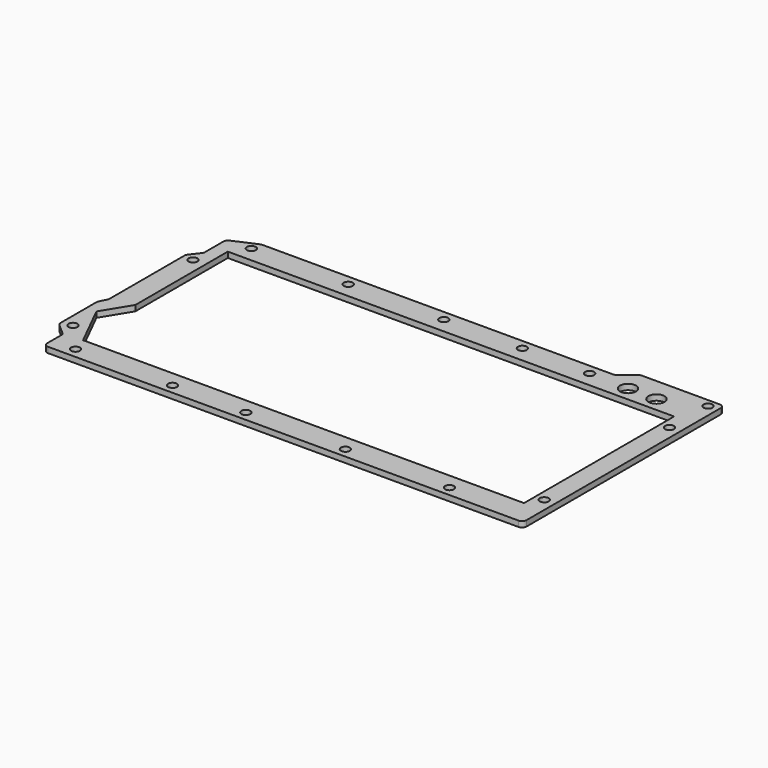
from build123d import *

# Parameters (mm, degrees)
F0_R     = 5
F0_R_2   = 9
F1_DEPTH = 6.35


with BuildPart() as f1:
    # F0 (on Top) → F1 (new body)
    with BuildSketch(Plane.XY):
        with BuildLine():
            Line((276.710023, 147.809442), (188.99699, 147.809442))
            ThreePointArc((188.99699, 147.809442), (187.374308, 147.538808), (185.927287, 146.756203))
            Line((185.927287, 146.756203), (170.635616, 134.862681))
            ThreePointArc((170.635616, 134.862681), (169.188595, 134.080076), (167.565913, 133.809442))
            Line((167.565913, 133.809442), (-226.693159, 133.809442))
            ThreePointArc((-226.693159, 133.809442), (-227.722024, 133.702441), (-228.706852, 133.386017))
            Line((-228.706852, 133.386017), (-254.30367, 122.123417))
            ThreePointArc((-254.30367, 122.123417), (-256.477367, 120.279198), (-257.289977, 117.546842))
            Line((-257.289977, 117.546842), (-257.289977, 91.510056))
            ThreePointArc((-257.289977, 91.510056), (-257.556289, 89.900025), (-258.326857, 88.461502))
            Line((-258.326857, 88.461502), (-266.253097, 78.157386))
            ThreePointArc((-266.253097, 78.157386), (-267.023665, 76.718864), (-267.289977, 75.108833))
            Line((-267.289977, 75.108833), (-267.289977, -30.010218))
            ThreePointArc((-267.289977, -30.010218), (-267.423732, -31.158983), (-267.817841, -32.246286))
            Line((-267.817841, -32.246286), (-271.762113, -40.13483))
            ThreePointArc((-271.762113, -40.13483), (-272.156222, -41.222133), (-272.289977, -42.370898))
            Line((-272.289977, -42.370898), (-272.289977, -92.907415))
            ThreePointArc((-272.289977, -92.907415), (-271.838233, -94.98428), (-270.56463, -96.685861))
            Line((-270.56463, -96.685861), (-259.015325, -106.695257))
            ThreePointArc((-259.015325, -106.695257), (-257.741721, -108.396838), (-257.289977, -110.473703))
            Line((-257.289977, -110.473703), (-257.289977, -130.190558))
            ThreePointArc((-257.289977, -130.190558), (-255.825511, -133.726092), (-252.289977, -135.190558))
            Line((-252.289977, -135.190558), (276.710023, -135.190558))
            ThreePointArc((276.710023, -135.190558), (280.245557, -133.726092), (281.710023, -130.190558))
            Line((281.710023, -130.190558), (281.710023, 142.809442))
            ThreePointArc((281.710023, 142.809442), (280.245557, 146.344976), (276.710023, 147.809442))
        make_face()
        with Locations((-230.789977, -123.690558)):
            Circle(F0_R, mode=Mode.SUBTRACT)
        with Locations((-260.789977, -89.690558)):
            Circle(F0_R, mode=Mode.SUBTRACT)
        with Locations((-121.289977, -124.190558)):
            Circle(F0_R, mode=Mode.SUBTRACT)
        with Locations((-38.789977, -124.190558)):
            Circle(F0_R, mode=Mode.SUBTRACT)
        Polygon((259.710023, -106.190558), (-236.289977, -106.190558), (-261.289977, -56.190558), (-242.289977, -25.190558), (-242.289977, 104.809442), (259.710023, 104.809442), align=None, mode=Mode.SUBTRACT)
        with Locations((73.210023, -124.190558)):
            Circle(F0_R, mode=Mode.SUBTRACT)
        with Locations((190.210023, -124.190558)):
            Circle(F0_R, mode=Mode.SUBTRACT)
        with Locations((269.710023, -90.190558)):
            Circle(F0_R, mode=Mode.SUBTRACT)
        with Locations((-256.289977, 73.309442)):
            Circle(F0_R, mode=Mode.SUBTRACT)
        with Locations((-229.789977, 122.309442)):
            Circle(F0_R, mode=Mode.SUBTRACT)
        with Locations((-120.789977, 122.309442)):
            Circle(F0_R, mode=Mode.SUBTRACT)
        with Locations((-13.289977, 122.309442)):
            Circle(F0_R, mode=Mode.SUBTRACT)
        with Locations((74.710023, 122.809442)):
            Circle(F0_R, mode=Mode.SUBTRACT)
        with Locations((269.710023, 85.809442)):
            Circle(F0_R, mode=Mode.SUBTRACT)
        with Locations((150.710023, 122.309442)):
            Circle(F0_R, mode=Mode.SUBTRACT)
        with Locations((194.91713, 121.016549)):
            Circle(F0_R_2, mode=Mode.SUBTRACT)
        with Locations((226.91713, 121.016549)):
            Circle(F0_R_2, mode=Mode.SUBTRACT)
        with Locations((270.710023, 138.809442)):
            Circle(F0_R, mode=Mode.SUBTRACT)
    extrude(amount=F1_DEPTH)


solid = f1.part
